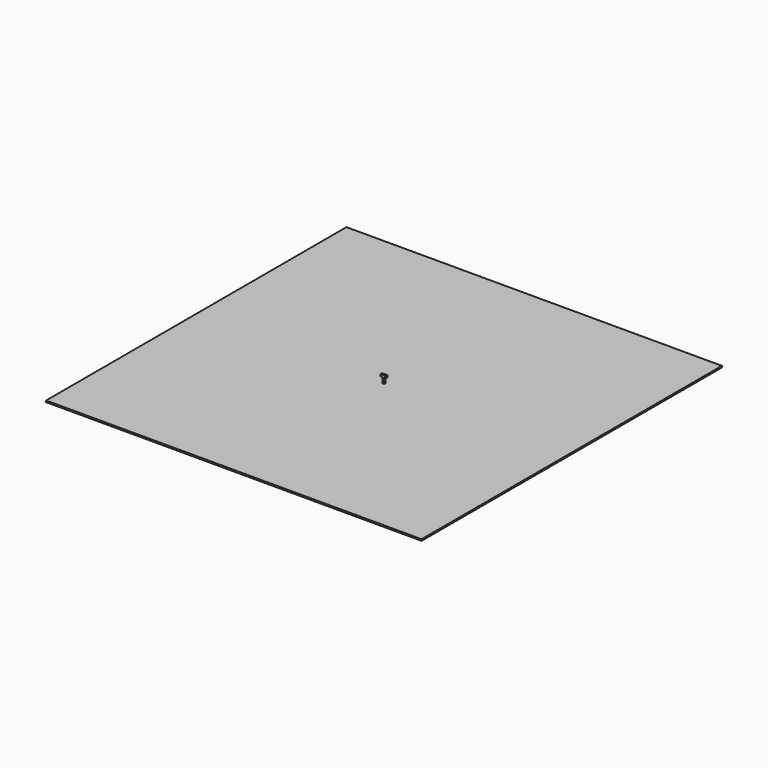
from build123d import *

# Parameters (mm, degrees)
F1_DEPTH = 5
F2_W     = 2000
F2_H     = 2000
F3_DEPTH = 8


with BuildPart() as f1:
    # F0 (on Front) → F1 (new body, symmetric)
    with BuildSketch(Plane.XZ):
        Polygon((15, 40), (-15, 40), (-15, 30), (-5, 30), (-5, 0), (5, 0), (5, 30), (15, 30), align=None)
    extrude(amount=F1_DEPTH, both=True)


with BuildPart() as f3:
    # F2 (on Top) → F3 (new body)
    with BuildSketch(Plane.XY):
        Rectangle(F2_W, F2_H)
    extrude(amount=-F3_DEPTH)


solid = Compound([f1.part, f3.part])
